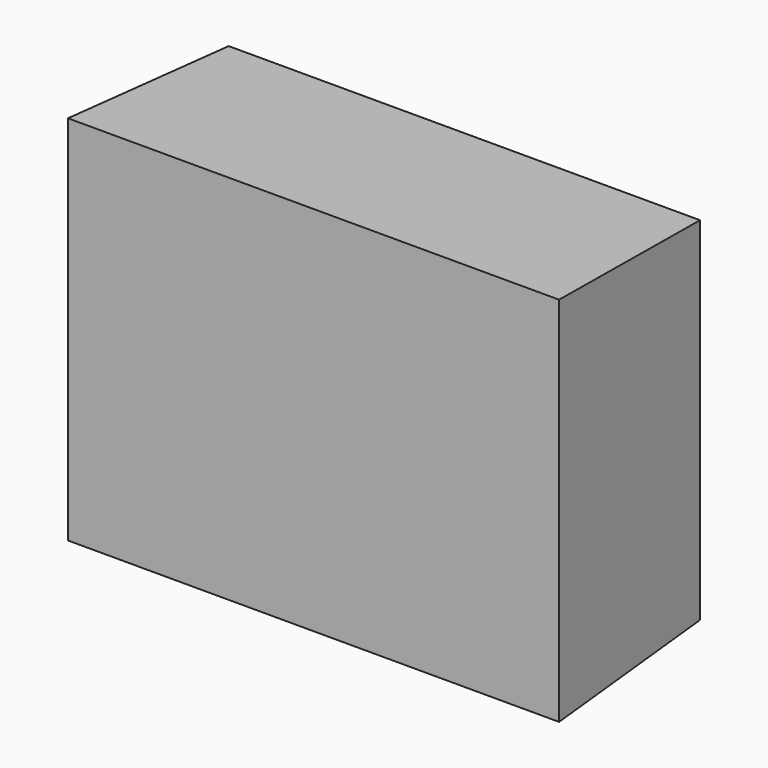
from build123d import *

# Parameters (mm, degrees)
F0_W     = 75
F0_H     = 56
F1_DEPTH = 30
F1_TAPER = -3


with BuildPart() as f1:
    # F0 (on Front) → F1 (new body)
    with BuildSketch(Plane.XZ):
        Rectangle(F0_W, F0_H)
    extrude(amount=F1_DEPTH, taper=F1_TAPER)


solid = f1.part
